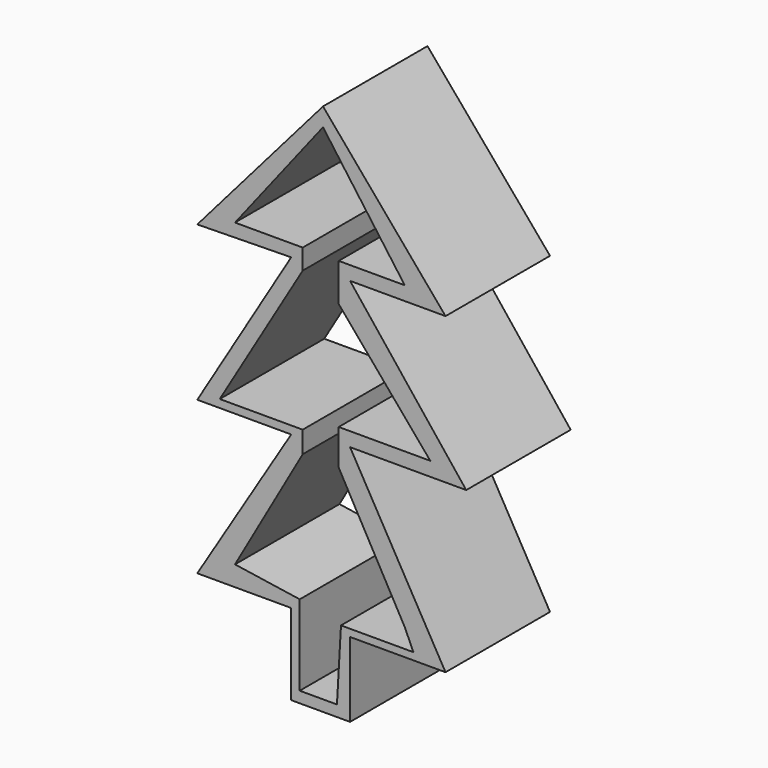
from build123d import *

# Parameters (mm, degrees)
F1_DEPTH = 25.4
F4_DEPTH = 25.4


with BuildPart() as f1:
    # F0 (on Front) → F1 (new body)
    with BuildSketch(Plane.XZ):
        Polygon((-29.4040627778, -34.6658416092), (-13.9282392338, -34.6658416092), (-13.9282392338, -54.4748939574), (0, -54.4748939574), (0, -34.0468101203), (12.9996910691, -34.0468101203), (0, -9.9045261741), (19.4995384663, -10.8330762014), (0, 19.4995366037), (12.9996910691, 19.4995366037), (-6.4998446032, 39.9276204407), (-25.3803487867, 19.8090523481), (-8.9759770781, 19.8090523481), (-34.6658416092, -9.9045261741), (-13.9282392338, -10.8330762014), align=None)
        Polygon((-20.9672786295, 22.1136379987), (-11.3465078175, 31.0843549669), (-6.3364817826, 36.2658323126), (6.7840320989, 22.5205328315), (-2.7060393941, 22.5205328315), (-2.7060393941, 17.6217724478), (12.9996910691, -6.8093617447), (-2.3284680181, -6.8093617447), (-2.3284680181, -12.9201814463), (8.0474307761, -32.1897082031), (-3.9969988042, -32.1897082031), (-3.9969988042, -51.0926617871), (-11.4108609159, -50.7606975734), (-11.4108609159, -31.906359816), (-23.4664510936, -31.3665568829), (-11.4108609159, -13.363099657), (-11.4108609159, -7.944371215), (-29.4040627778, -7.1387048811), (-7.8362263739, 19.4995366037), (-7.8362263739, 22.1136379987), align=None, mode=Mode.SUBTRACT)
    extrude(amount=F1_DEPTH)


with BuildPart() as f4:
    # F3 (on Front) → F4 (new body)
    with BuildSketch(Plane.XZ):
        Polygon((-24.4517996907, -40.5466556549), (-6.1903311871, -40.5466556549), (-6.1903311871, -56.3319921494), (5.2617802285, -56.3319921494), (5.2617802285, -41.784722358), (23.8327626139, -41.784722358), (5.2617802285, -9.2854928225), (27.8564821929, -9.2854928225), (5.2617802285, 19.1900189966), (23.8327626139, 19.1900189966), (0, 47.3560169339), (-24.4517996907, 19.1900189966), (-6.1903311871, 19.4995366037), (-24.4517996907, -10.8330762014), (-6.1903311871, -10.8330762014), align=None)
        Polygon((-17.1195007861, 21.893909201), (0, 43.7848083675), (15.8973690122, 21.893909201), (3.0488721095, 21.893909201), (3.0488721095, 14.5096303895), (20.8655081271, -6.5463982989), (3.0488721095, -6.5463982989), (3.0488721095, -13.4936347604), (15.8973690122, -36.6372689605), (17.5805799663, -40.379870683), (3.4944114741, -40.379870683), (2.7118462604, -54.1725791991), (-4.5268801041, -54.1725791991), (-4.5268801041, -38.5212786496), (-17.1195007861, -36.6372689605), (-3.9520426653, -13.4936347604), (-3.9520426653, -9.2854928225), (-20.0821794569, -9.2854928225), (-3.9520426653, 17.9436709732), (-3.9520426653, 21.893909201), align=None, mode=Mode.SUBTRACT)
    extrude(amount=F4_DEPTH)


solid = f4.part
